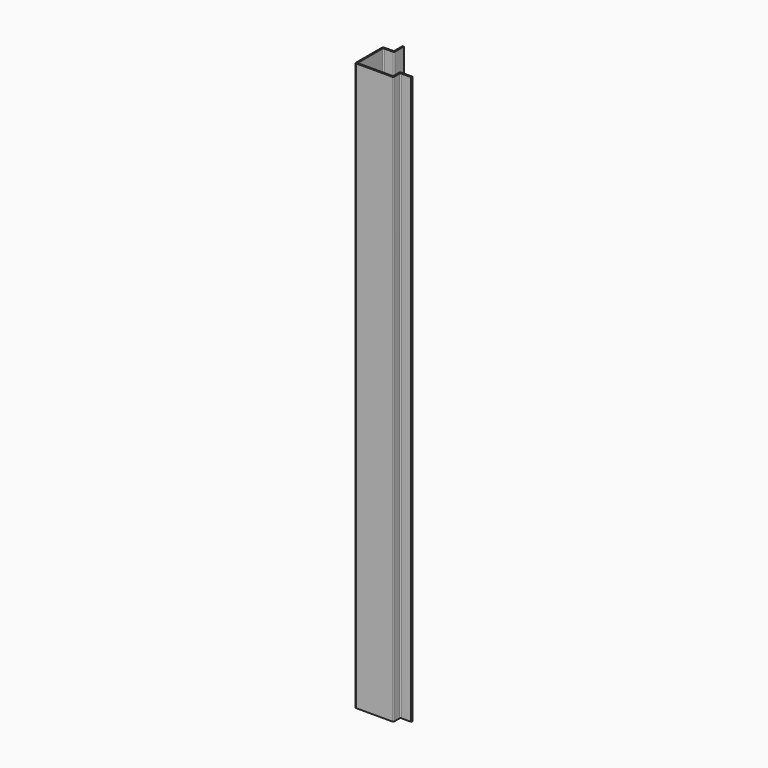
from build123d import *

# Parameters (mm, degrees)
F1_DEPTH = 2600


with BuildPart() as f1:
    # F0 (on Top) → F1 (new body)
    with BuildSketch(Plane.XY):
        with BuildLine():
            Line((-45, 0), (0, 0))
            Line((0, 0), (0, 6))
            Line((0, 6), (-51, 6))
            ThreePointArc((-51, 6), (-54.535534, 4.535534), (-56, 1))
            Line((-56, 1), (-56, -29))
            ThreePointArc((-56, -29), (-57.464466, -32.535534), (-61, -34))
            Line((-61, -34), (-214, -34))
            ThreePointArc((-214, -34), (-217.535534, -32.535534), (-219, -29))
            Line((-219, -29), (-219, 108))
            ThreePointArc((-219, 108), (-217.535534, 111.535534), (-214, 113))
            Line((-214, 113), (-174, 113))
            ThreePointArc((-174, 113), (-170.464466, 114.464466), (-169, 118))
            Line((-169, 118), (-169, 169))
            Line((-169, 169), (-175, 169))
            Line((-175, 169), (-175, 124))
            ThreePointArc((-175, 124), (-176.464466, 120.464466), (-180, 119))
            Line((-180, 119), (-220, 119))
            ThreePointArc((-220, 119), (-223.535534, 117.535534), (-225, 114))
            Line((-225, 114), (-225, -35))
            ThreePointArc((-225, -35), (-223.535534, -38.535534), (-220, -40))
            Line((-220, -40), (-55, -40))
            ThreePointArc((-55, -40), (-51.464466, -38.535534), (-50, -35))
            Line((-50, -35), (-50, -5))
            ThreePointArc((-50, -5), (-48.535534, -1.464466), (-45, 0))
        make_face()
    extrude(amount=F1_DEPTH)


solid = f1.part
